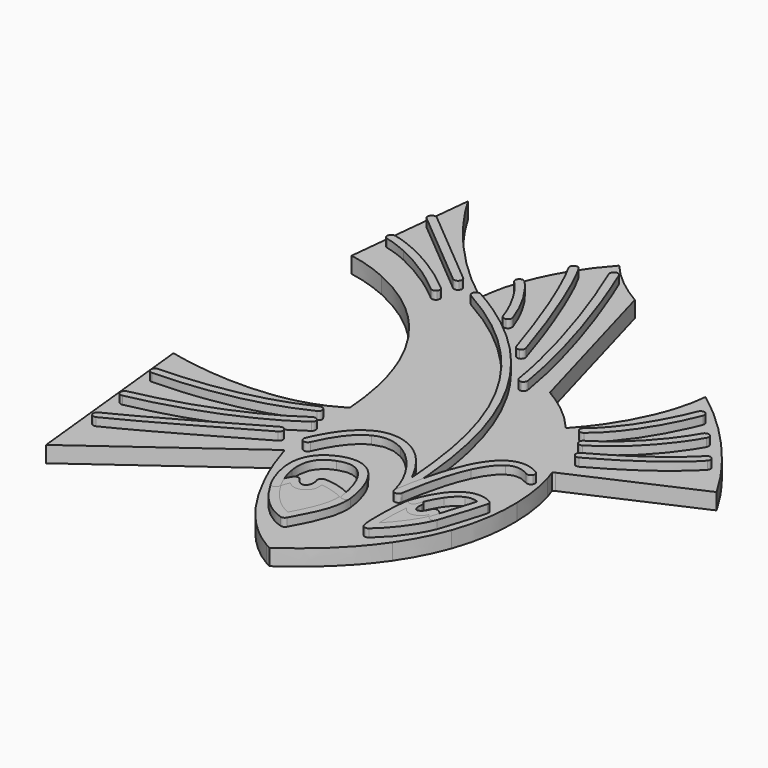
from build123d import *

# Parameters (mm, degrees)
EXTRUDE_DEPTH    = 2
EXTRUDE001_DEPTH = 3
EXTRUDE002_DEPTH = 3
EXTRUDE003_DEPTH = 3
EXTRUDE004_DEPTH = 3
EXTRUDE005_DEPTH = 3
EXTRUDE006_DEPTH = 3
EXTRUDE007_DEPTH = 3
EXTRUDE008_DEPTH = 3
EXTRUDE009_DEPTH = 3
EXTRUDE010_DEPTH = 3
EXTRUDE011_DEPTH = 3
EXTRUDE012_DEPTH = 3
EXTRUDE013_DEPTH = 3
EXTRUDE014_DEPTH = 3
EXTRUDE015_DEPTH = 3
EXTRUDE016_DEPTH = 3
EXTRUDE017_DEPTH = 3
EXTRUDE018_DEPTH = 3
EXTRUDE019_DEPTH = 3


with BuildPart() as extrude_body:
    # path1109_w → Extrude (new body)
    with BuildSketch(Plane(origin=(-0.892575, -4.604496, 0), x_dir=(0, 1, 0), z_dir=(0, 0, 1))):
        with BuildLine():
            add(Edge.make_bspline(
                [(18.381953, 28.835191), (18.09346, 27.137508), (17.538555, 25.493338), (16.849265, 23.918468)],
                knots=[0, 0, 0, 0, 1, 1, 1, 1], degree=3))
            add(Edge.make_bspline(
                [(16.849265, 23.918468), (15.387832, 20.619381), (13.174475, 17.650197), (10.393487, 15.34509)],
                knots=[0, 0, 0, 0, 1, 1, 1, 1], degree=3))
            add(Edge.make_bspline(
                [(10.393487, 15.34509), (7.608755, 13.020717), (4.288275, 11.386387), (0.80836, 10.394227)],
                knots=[0, 0, 0, 0, 1, 1, 1, 1], degree=3))
            add(Edge.make_bspline(
                [(0.80836, 10.394227), (-1.55961, 9.713605), (-4.003126, 9.315944), (-6.457933, 9.126728)],
                knots=[0, 0, 0, 0, 1, 1, 1, 1], degree=3))
            add(Edge.make_bspline(
                [(-6.457933, 9.126728), (-6.623024, 9.185088), (-6.664554, 9.382069), (-6.766391, 9.509392)],
                knots=[0, 0, 0, 0, 1, 1, 1, 1], degree=3))
            add(Edge.make_bspline(
                [(-6.766391, 9.509392), (-8.079113, 11.659896), (-8.76699, 14.135099), (-9.093978, 16.617297)],
                knots=[0, 0, 0, 0, 1, 1, 1, 1], degree=3))
            add(Edge.make_bspline(
                [(-9.093978, 16.617297), (-9.51597, 19.898777), (-9.349459, 23.232866), (-8.860775, 26.497299)],
                knots=[0, 0, 0, 0, 1, 1, 1, 1], degree=3))
            add(Edge.make_bspline(
                [(-8.860775, 26.497299), (-8.703361, 27.515904), (-8.516595, 28.530524), (-8.276006, 29.532973)],
                knots=[0, 0, 0, 0, 1, 1, 1, 1], degree=3))
            add(Edge.make_bspline(
                [(-8.276006, 29.532973), (-15.825913, 28.740132), (-23.37582, 27.947293), (-30.925726, 27.154453)],
                knots=[0, 0, 0, 0, 1, 1, 1, 1], degree=3))
            add(Edge.make_bspline(
                [(-30.925726, 27.154453), (-26.434715, 20.971801), (-21.943704, 14.789151), (-17.452693, 8.606499)],
                knots=[0, 0, 0, 0, 1, 1, 1, 1], degree=3))
            add(Edge.make_bspline(
                [(-17.452693, 8.606499), (-17.468243, 8.476083), (-17.541993, 8.407435), (-17.671592, 8.396756)],
                knots=[0, 0, 0, 0, 1, 1, 1, 1], degree=3))
            add(Edge.make_bspline(
                [(-17.671592, 8.396756), (-19.675744, 7.792168), (-21.61874, 7.017008), (-23.50533, 6.114496)],
                knots=[0, 0, 0, 0, 1, 1, 1, 1], degree=3))
            add(Edge.make_bspline(
                [(-23.50533, 6.114496), (-26.199065, 4.811834), (-28.783443, 3.221915), (-30.970769, 1.166448)],
                knots=[0, 0, 0, 0, 1, 1, 1, 1], degree=3))
            add(Edge.make_bspline(
                [(-30.970769, 1.166448), (-32.125231, 0.073067), (-33.146697, -1.137743), (-33.945302, -2.517715)],
                knots=[0, 0, 0, 0, 1, 1, 1, 1], degree=3))
            add(Edge.make_bspline(
                [(-33.945302, -2.517715), (-34.056995, -2.710815), (-34.163713, -2.906796), (-34.265213, -3.105441)],
                knots=[0, 0, 0, 0, 1, 1, 1, 1], degree=3))
            add(Edge.make_bspline(
                [(-34.265213, -3.105441), (-32.00193, -6.404285), (-29.249159, -9.411966), (-25.936131, -11.681635)],
                knots=[0, 0, 0, 0, 1, 1, 1, 1], degree=3))
            add(Edge.make_bspline(
                [(-25.936131, -11.681635), (-24.22088, -12.857357), (-22.344829, -13.835515), (-20.390677, -14.532582)],
                knots=[0, 0, 0, 0, 1, 1, 1, 1], degree=3))
            add(Edge.make_bspline(
                [(-20.390677, -14.532582), (-17.692562, -15.501847), (-14.832501, -15.952354), (-11.97039, -15.878552)],
                knots=[0, 0, 0, 0, 1, 1, 1, 1], degree=3))
            add(Edge.make_bspline(
                [(-11.97039, -15.878552), (-9.990465, -15.827512), (-8.015191, -15.541054), (-6.107226, -14.984446)],
                knots=[0, 0, 0, 0, 1, 1, 1, 1], degree=3))
            add(Edge.make_bspline(
                [(-6.107226, -14.984446), (-5.7239, -14.868346), (-5.341557, -14.7473), (-4.969569, -14.598257)],
                knots=[0, 0, 0, 0, 1, 1, 1, 1], degree=3))
            add(Edge.make_bspline(
                [(-4.969569, -14.598257), (-4.828071, -14.614667), (-4.79245, -14.739758), (-4.745974, -14.853712)],
                knots=[0, 0, 0, 0, 1, 1, 1, 1], degree=3))
            add(Edge.make_bspline(
                [(-4.745974, -14.853712), (-2.565798, -19.746798), (-0.385623, -24.639885), (1.794553, -29.532973)],
                knots=[0, 0, 0, 0, 1, 1, 1, 1], degree=3))
            add(Edge.make_bspline(
                [(1.794553, -29.532973), (3.749467, -28.425449), (5.588326, -27.130813), (7.357339, -25.745862)],
                knots=[0, 0, 0, 0, 1, 1, 1, 1], degree=3))
            add(Edge.make_bspline(
                [(7.357339, -25.745862), (10.837405, -23.003029), (13.996693, -19.834603), (16.659137, -16.287154)],
                knots=[0, 0, 0, 0, 1, 1, 1, 1], degree=3))
            add(Edge.make_bspline(
                [(16.659137, -16.287154), (14.570579, -16.11039), (12.537558, -15.503919), (10.615185, -14.6859)],
                knots=[0, 0, 0, 0, 1, 1, 1, 1], degree=3))
            add(Edge.make_bspline(
                [(10.615185, -14.6859), (7.903544, -13.5217), (5.397682, -11.885244), (3.228483, -9.886672)],
                knots=[0, 0, 0, 0, 1, 1, 1, 1], degree=3))
            add(Edge.make_bspline(
                [(3.228483, -9.886672), (3.194696, -9.7489), (3.280279, -9.670024), (3.387594, -9.60187)],
                knots=[0, 0, 0, 0, 1, 1, 1, 1], degree=3))
            add(Edge.make_bspline(
                [(3.387594, -9.60187), (4.922412, -8.339113), (6.182443, -6.775421), (7.277511, -5.1257)],
                knots=[0, 0, 0, 0, 1, 1, 1, 1], degree=3))
            add(Edge.make_bspline(
                [(7.277511, -5.1257), (7.523999, -4.760164), (7.746823, -4.375632), (7.977955, -4.003143)],
                knots=[0, 0, 0, 0, 1, 1, 1, 1], degree=3))
            add(Edge.make_bspline(
                [(7.977955, -4.003143), (8.133045, -3.905711), (8.331976, -3.895004), (8.504278, -3.83162)],
                knots=[0, 0, 0, 0, 1, 1, 1, 1], degree=3))
            add(Edge.make_bspline(
                [(8.504278, -3.83162), (15.078779, -1.981864), (21.65328, -0.132108), (28.22778, 1.717648)],
                knots=[0, 0, 0, 0, 1, 1, 1, 1], degree=3))
            add(Edge.make_bspline(
                [(28.22778, 1.717648), (29.152411, 3.296762), (30.243855, 4.783624), (31.511228, 6.105802)],
                knots=[0, 0, 0, 0, 1, 1, 1, 1], degree=3))
            add(Edge.make_bspline(
                [(31.511228, 6.105802), (31.945829, 6.554473), (32.403157, 6.981988), (32.890384, 7.373336)],
                knots=[0, 0, 0, 0, 1, 1, 1, 1], degree=3))
            add(Edge.make_bspline(
                [(32.890384, 7.373336), (30.818202, 9.267517), (28.431088, 10.831208), (25.854992, 11.965202)],
                knots=[0, 0, 0, 0, 1, 1, 1, 1], degree=3))
            add(Edge.make_bspline(
                [(25.854992, 11.965202), (24.174024, 12.701385), (22.383291, 13.271917), (20.558214, 13.538264)],
                knots=[0, 0, 0, 0, 1, 1, 1, 1], degree=3))
            add(Edge.make_bspline(
                [(20.558214, 13.538264), (20.200919, 13.588724), (19.848591, 13.627124), (19.484227, 13.6526)],
                knots=[0, 0, 0, 0, 1, 1, 1, 1], degree=3))
            add(Edge.make_bspline(
                [(19.484227, 13.6526), (19.400127, 13.767019), (19.405427, 13.871388), (19.516547, 13.963862)],
                knots=[0, 0, 0, 0, 1, 1, 1, 1], degree=3))
            add(Edge.make_bspline(
                [(19.516547, 13.963862), (22.527011, 17.973608), (26.1609, 21.503913), (30.191444, 24.482476)],
                knots=[0, 0, 0, 0, 1, 1, 1, 1], degree=3))
            add(Edge.make_bspline(
                [(30.191444, 24.482476), (31.50226, 25.44675), (32.853347, 26.359467), (34.265213, 27.169994)],
                knots=[0, 0, 0, 0, 1, 1, 1, 1], degree=3))
            add(Edge.make_bspline(
                [(34.265213, 27.169994), (28.970792, 27.725059), (23.676374, 28.280124), (18.381953, 28.835191)],
                knots=[0, 0, 0, 0, 1, 1, 1, 1], degree=3))
        make_face()
    extrude(amount=EXTRUDE_DEPTH)


with BuildPart() as extrude001:
    # path1209 → Extrude001 (new body)
    with BuildSketch(Plane(origin=(-1.098331, -7.404065, 0), x_dir=(0, 1, 0), z_dir=(0, 0, 1))):
        with BuildLine():
            add(Edge.make_bspline(
                [(21.216565, 12.714169), (21.459297, 13.15057), (21.023206, 13.393857)],
                knots=[1.063195, 1.063195, 1.063195, 2.632718, 2.632718, 2.632718], degree=2, weights=[1, 0.707557, 1]))
            add(Edge.make_bspline(
                [(21.023206, 13.393857), (20.587924, 13.637056), (20.343518, 13.20245)],
                knots=[2.632083, 2.632083, 2.632083, 4.200104, 4.200104, 4.200104], degree=2, weights=[1, 0.708087, 1]))
            add(Edge.make_bspline(
                [(20.343518, 13.20245), (10.75191, -3.945727), (-4.503114, -5.406375), (-12.875232, -6.07294)],
                knots=[0, 0, 0, 0, 1, 1, 1, 1], degree=3))
            add(Edge.make_bspline(
                [(-12.875232, -6.07294), (-10.789905, -5.036703), (-8.801636, -3.638222), (-7.773669, -1.717471)],
                knots=[0, 0, 0, 0, 1, 1, 1, 1], degree=3))
            add(Edge.make_bspline(
                [(-7.773669, -1.717471), (-7.013591, -0.297269), (-6.800692, 1.339455), (-7.562732, 2.897763)],
                knots=[0, 0, 0, 0, 1, 1, 1, 1], degree=3))
            add(Edge.make_bspline(
                [(-7.562732, 2.897763), (-8.324772, 4.456072), (-9.993898, 5.891592), (-12.836169, 7.126279)],
                knots=[0, 0, 0, 0, 1, 1, 1, 1], degree=3))
            add(Edge.make_bspline(
                [(-12.836169, 7.126279), (-13.294099, 7.326276), (-13.494372, 6.868466)],
                knots=[2.729819, 2.729819, 2.729819, 4.300013, 4.300013, 4.300013], degree=2, weights=[1, 0.70732, 1]))
            add(Edge.make_bspline(
                [(-13.494372, 6.868466), (-13.694058, 6.409298), (-13.234607, 6.210263)],
                knots=[4.302174, 4.302174, 4.302174, 5.874389, 5.874389, 5.874389], degree=2, weights=[1, 0.706605, 1]))
            add(Edge.make_bspline(
                [(-13.234607, 6.210263), (-10.522201, 5.03199), (-9.074548, 3.712618), (-8.461169, 2.45831)],
                knots=[0, 0, 0, 0, 1, 1, 1, 1], degree=3))
            add(Edge.make_bspline(
                [(-8.461169, 2.45831), (-7.847791, 1.204002), (-8.002834, -0.029081), (-8.654529, -1.246768)],
                knots=[0, 0, 0, 0, 1, 1, 1, 1], degree=3))
            add(Edge.make_bspline(
                [(-8.654529, -1.246768), (-9.957918, -3.682143), (-13.39183, -5.839564), (-16.037341, -6.371768)],
                knots=[0, 0, 0, 0, 1, 1, 1, 1], degree=3))
            add(Edge.make_bspline(
                [(-16.037341, -6.371768), (-16.492805, -6.473716), (-16.422453, -6.935117), (-16.352101, -7.396519), (-15.886951, -7.358096)],
                knots=[3.361795, 3.361795, 3.361795, 4.863698, 4.863698, 6.365601, 6.365601, 6.365601], degree=2, weights=[1, 0.73104, 1, 0.73104, 1]))
            add(Edge.make_bspline(
                [(-15.886951, -7.358096), (-8.925045, -6.62176), (10.2185, -6.948516), (21.216565, 12.714169)],
                knots=[0, 0, 0, 0, 1, 1, 1, 1], degree=3))
        make_face()
    extrude(amount=EXTRUDE001_DEPTH)


with BuildPart() as extrude002:
    # path1211 → Extrude002 (new body)
    with BuildSketch(Plane(origin=(8.357602, -16.402263, 0), x_dir=(0, 1, 0), z_dir=(0, 0, 1))):
        with BuildLine():
            add(Edge.make_bspline(
                [(5.068279, -3.271304), (5.072879, -2.64288), (4.895624, -2.056121), (4.566325, -1.540835)],
                knots=[0, 0, 0, 0, 1, 1, 1, 1], degree=3))
            add(Edge.make_bspline(
                [(4.566325, -1.540835), (3.907729, -0.510263), (2.74822, 0.255876), (1.402263, 0.879087)],
                knots=[0, 0, 0, 0, 1, 1, 1, 1], degree=3))
            add(Edge.make_bspline(
                [(1.402263, 0.879087), (-1.289652, 2.125509), (-4.793491, 2.784997), (-6.867268, 3.090024)],
                knots=[0, 0, 0, 0, 1, 1, 1, 1], degree=3))
            add(Edge.make_bspline(
                [(-6.867268, 3.090024), (-7.362812, 3.163842), (-7.435628, 2.668149)],
                knots=[2.993717, 2.993717, 2.993717, 4.566536, 4.566536, 4.566536], degree=2, weights=[1, 0.706391, 1]))
            add(Edge.make_bspline(
                [(-7.435628, 2.668149), (-7.509445, 2.172605), (-7.013753, 2.09979)],
                knots=[4.564514, 4.564514, 4.564514, 6.137332, 6.137332, 6.137332], degree=2, weights=[1, 0.706392, 1]))
            add(Edge.make_bspline(
                [(-7.013753, 2.09979), (-4.9878, 1.801797), (-1.529985, 1.133248), (0.980388, -0.029116)],
                knots=[0, 0, 0, 0, 1, 1, 1, 1], degree=3))
            add(Edge.make_bspline(
                [(0.980388, -0.029116), (2.235575, -0.610298), (3.237591, -1.319041), (3.722575, -2.077945)],
                knots=[0, 0, 0, 0, 1, 1, 1, 1], degree=3))
            add(Edge.make_bspline(
                [(3.722575, -2.077945), (4.20756, -2.836848), (4.279278, -3.618785), (3.615154, -4.732242)],
                knots=[0, 0, 0, 0, 1, 1, 1, 1], degree=3))
            add(Edge.make_bspline(
                [(3.615154, -4.732242), (3.359164, -5.161962), (3.788982, -5.417789)],
                knots=[4.175127, 4.175127, 4.175127, 5.746305, 5.746305, 5.746305], degree=2, weights=[1, 0.706972, 1]))
            add(Edge.make_bspline(
                [(3.788982, -5.417789), (4.218703, -5.673779), (4.474529, -5.243961)],
                knots=[5.745924, 5.745924, 5.745924, 7.317102, 7.317102, 7.317102], degree=2, weights=[1, 0.706972, 1]))
            add(Edge.make_bspline(
                [(4.474529, -5.243961), (4.877192, -4.568864), (5.063653, -3.899729), (5.068279, -3.271304)],
                knots=[0, 0, 0, 0, 1, 1, 1, 1], degree=3))
        make_face()
    extrude(amount=EXTRUDE002_DEPTH)


with BuildPart() as extrude003:
    # path4670 → Extrude003 (new body)
    with BuildSketch(Plane(origin=(-18.668193, -20.921825, 0), x_dir=(0, 1, 0), z_dir=(0, 0, 1))):
        with BuildLine():
            add(Edge.make_bspline(
                [(4.478466, -8.209209), (0.864577, -3.139223), (-1.494144, 4.090844), (-2.470753, 9.062276)],
                knots=[0, 0, 0, 0, 1, 1, 1, 1], degree=3))
            add(Edge.make_bspline(
                [(-2.470753, 9.062276), (-2.566931, 9.554235), (-3.058644, 9.456807)],
                knots=[1.763862, 1.763862, 1.763862, 3.337199, 3.337199, 3.337199], degree=2, weights=[1, 0.706208, 1]))
            add(Edge.make_bspline(
                [(-3.058644, 9.456807), (-3.548722, 9.359046), (-3.451222, 8.868916)],
                knots=[3.338489, 3.338489, 3.338489, 4.908752, 4.908752, 4.908752], degree=2, weights=[1, 0.707295, 1]))
            add(Edge.make_bspline(
                [(-3.451222, 8.868916), (-2.451675, 3.780722), (-0.089887, -3.52483), (3.664013, -8.791239)],
                knots=[0, 0, 0, 0, 1, 1, 1, 1], degree=3))
            add(Edge.make_bspline(
                [(3.664013, -8.791239), (3.955091, -9.197111), (4.361278, -8.906474)],
                knots=[5.334544, 5.334544, 5.334544, 6.904255, 6.904255, 6.904255], degree=2, weights=[1, 0.70749, 1]))
            add(Edge.make_bspline(
                [(4.361278, -8.906474), (4.768443, -8.616425), (4.478466, -8.209209)],
                knots=[0.618975, 0.618975, 0.618975, 2.189594, 2.189594, 2.189594], degree=2, weights=[1, 0.707169, 1]))
        make_face()
    extrude(amount=EXTRUDE003_DEPTH)


with BuildPart() as extrude004:
    # path5680 → Extrude004 (new body)
    with BuildSketch(Plane(origin=(-19.560402, -17.129801, 0), x_dir=(0, 1, 0), z_dir=(0, 0, 1))):
        with BuildLine():
            add(Edge.make_bspline(
                [(2.86027, -8.271339), (0.008059, -2.390973), (-0.650727, 4.316422), (-0.745199, 8.763817)],
                knots=[0, 0, 0, 0, 1, 1, 1, 1], degree=3))
            add(Edge.make_bspline(
                [(-0.745199, 8.763817), (-0.75678, 9.261965), (-1.254965, 9.252098)],
                knots=[1.59404, 1.59404, 1.59404, 3.161396, 3.161396, 3.161396], degree=2, weights=[1, 0.708322, 1]))
            add(Edge.make_bspline(
                [(-1.254965, 9.252098), (-1.755062, 9.242425), (-1.745199, 8.742332)],
                knots=[3.160931, 3.160931, 3.160931, 4.732109, 4.732109, 4.732109], degree=2, weights=[1, 0.706972, 1]))
            add(Edge.make_bspline(
                [(-1.745199, 8.742332), (-1.649109, 4.218905), (-0.99573, -2.615298), (1.959879, -8.708839)],
                knots=[0, 0, 0, 0, 1, 1, 1, 1], degree=3))
            add(Edge.make_bspline(
                [(1.959879, -8.708839), (2.17879, -9.15759), (2.627848, -8.939308)],
                knots=[5.166249, 5.166249, 5.166249, 6.735642, 6.735642, 6.735642], degree=2, weights=[1, 0.707603, 1]))
            add(Edge.make_bspline(
                [(2.627848, -8.939308), (3.078179, -8.721582), (2.86027, -8.271339)],
                knots=[0.450345, 0.450345, 0.450345, 2.021547, 2.021547, 2.021547], degree=2, weights=[1, 0.706964, 1]))
        make_face()
    extrude(amount=EXTRUDE004_DEPTH)


with BuildPart() as extrude005:
    # path5682 → Extrude005 (new body)
    with BuildSketch(Plane(origin=(-19.100492, -24.783244, 0), x_dir=(0, 1, 0), z_dir=(0, 0, 1))):
        with BuildLine():
            add(Edge.make_bspline(
                [(4.85551, -7.879789), (4.909415, -7.680243), (4.80668, -7.500883)],
                knots=[1.306959, 1.306959, 1.306959, 2.090963, 2.090963, 2.090963], degree=2, weights=[1, 0.924146, 1]))
            add(Edge.make_bspline(
                [(4.80668, -7.500883), (2.450153, -3.367482), (-1.697113, 3.770403), (-3.79293, 8.036227)],
                knots=[0, 0, 0, 0, 1, 1, 1, 1], degree=3))
            add(Edge.make_bspline(
                [(-3.79293, 8.036227), (-4.014581, 8.484553), (-4.462852, 8.262789)],
                knots=[2.029952, 2.029952, 2.029952, 3.601, 3.601, 3.601], degree=2, weights=[1, 0.707018, 1]))
            add(Edge.make_bspline(
                [(-4.462852, 8.262789), (-4.910028, 8.042697), (-4.691367, 7.59482)],
                knots=[3.598966, 3.598966, 3.598966, 5.166565, 5.166565, 5.166565], degree=2, weights=[1, 0.708236, 1]))
            add(Edge.make_bspline(
                [(-4.691367, 7.59482), (-2.560125, 3.256892), (1.585927, -3.870244), (3.937539, -7.995023)],
                knots=[0, 0, 0, 0, 1, 1, 1, 1], degree=3))
            add(Edge.make_bspline(
                [(3.937539, -7.995023), (4.185125, -8.432254), (4.621133, -8.182523)],
                knots=[5.227628, 5.227628, 5.227628, 6.803339, 6.803339, 6.803339], degree=2, weights=[1, 0.705367, 1]))
            add(Edge.make_bspline(
                [(4.621133, -8.182523), (4.801054, -8.079723), (4.85551, -7.879789)],
                knots=[0.519097, 0.519097, 0.519097, 1.304874, 1.304874, 1.304874], degree=2, weights=[1, 0.923807, 1]))
        make_face()
    extrude(amount=EXTRUDE005_DEPTH)


with BuildPart() as extrude006:
    # path5684 → Extrude006 (new body)
    with BuildSketch(Plane(origin=(15.470284, 2.403418, 0), x_dir=(0, 1, 0), z_dir=(0, 0, 1))):
        with BuildLine():
            add(Edge.make_bspline(
                [(5.608301, -3.080497), (5.784889, -2.61138), (5.315332, -2.435966)],
                knots=[1.210775, 1.210775, 1.210775, 2.784073, 2.784073, 2.784073], degree=2, weights=[1, 0.706222, 1]))
            add(Edge.make_bspline(
                [(5.315332, -2.435966), (4.909839, -2.281328), (4.125695, -1.936366), (2.95686, -1.382015), (1.813169, -0.7822), (0.692906, -0.138312), (-0.397696, 0.553847), (-1.45318, 1.30107), (-2.459262, 2.105711), (-3.416814, 2.996757), (-3.969468, 3.607631), (-4.25498, 3.964425)],
                knots=[0, 0, 0, 0, 1.291523, 2.583115, 3.874706, 5.166283, 6.457835, 7.749343, 9.040779, 10.332093, 11.623194, 11.623194, 11.623194, 11.623194], degree=3))
            add(Edge.make_bspline(
                [(-4.25498, 3.964425), (-4.56744, 4.355396), (-4.958105, 4.042555)],
                knots=[2.245041, 2.245041, 2.245041, 3.816816, 3.816816, 3.816816], degree=2, weights=[1, 0.706761, 1]))
            add(Edge.make_bspline(
                [(-4.958105, 4.042555), (-5.349074, 3.730093), (-5.03623, 3.33943)],
                knots=[3.815845, 3.815845, 3.815845, 5.387618, 5.387618, 5.387618], degree=2, weights=[1, 0.706761, 1]))
            add(Edge.make_bspline(
                [(-5.03623, 3.33943), (-4.753752, 2.986428), (-4.154429, 2.314456), (-3.168895, 1.386184), (-2.119922, 0.532427), (-1.020683, -0.256003), (0.117562, -0.985343), (1.291036, -1.661712), (2.482051, -2.285409), (3.734505, -2.869413), (4.492735, -3.200545), (4.96377, -3.373461)],
                knots=[0, 0, 0, 0, 1.351503, 2.703178, 4.05496, 5.406811, 6.758705, 8.110627, 9.462562, 10.814497, 12.166343, 12.166343, 12.166343, 12.166343], degree=3))
            add(Edge.make_bspline(
                [(4.96377, -3.373461), (5.432883, -3.55005), (5.608301, -3.080497)],
                knots=[5.92316, 5.92316, 5.92316, 7.496453, 7.496453, 7.496453], degree=2, weights=[1, 0.706223, 1]))
        make_face()
    extrude(amount=EXTRUDE006_DEPTH)


with BuildPart() as extrude007:
    # path5688 → Extrude007 (new body)
    with BuildSketch(Plane(origin=(17.816279, -0.392613, 0), x_dir=(0, 1, 0), z_dir=(0, 0, 1))):
        with BuildLine():
            add(Edge.make_bspline(
                [(5.019566, -3.992315), (5.256403, -3.549478), (4.812535, -3.31458)],
                knots=[1.079684, 1.079684, 1.079684, 2.654853, 2.654853, 2.654853], degree=2, weights=[1, 0.705559, 1]))
            add(Edge.make_bspline(
                [(4.812535, -3.31458), (4.427837, -3.109436), (3.702536, -2.647832), (2.635218, -1.908637), (1.611281, -1.113911), (0.626046, -0.270657), (-0.314913, 0.620673), (-1.209243, 1.562277), (-2.045159, 2.544003), (-2.839696, 3.603635), (-3.279253, 4.266821), (-3.529262, 4.675654)],
                knots=[0, 0, 0, 0, 1.295886, 2.591948, 3.888028, 5.184107, 6.480177, 7.776232, 9.072267, 10.368277, 11.664261, 11.664261, 11.664261, 11.664261], degree=3))
            add(Edge.make_bspline(
                [(-3.529262, 4.675654), (-3.791051, 5.101141), (-4.216762, 4.839716)],
                knots=[2.122367, 2.122367, 2.122367, 3.692309, 3.692309, 3.692309], degree=2, weights=[1, 0.707409, 1]))
            add(Edge.make_bspline(
                [(-4.216762, 4.839716), (-4.640857, 4.579543), (-4.382778, 4.15417)],
                knots=[3.691865, 3.691865, 3.691865, 5.25773, 5.25773, 5.25773], degree=2, weights=[1, 0.708848, 1]))
            add(Edge.make_bspline(
                [(-4.382778, 4.15417), (-4.146627, 3.767999), (-3.650019, 3.013505), (-2.834595, 1.929039), (-1.957054, 0.895056), (-1.023121, -0.088662), (-0.039363, -1.021393), (0.993148, -1.904026), (2.057818, -2.730762), (3.201535, -3.515953), (3.896205, -3.962752), (4.343785, -4.199346)],
                knots=[0, 0, 0, 0, 1.355533, 2.711093, 4.066676, 5.422279, 6.777897, 8.133523, 9.489151, 10.844758, 12.200173, 12.200173, 12.200173, 12.200173], degree=3))
            add(Edge.make_bspline(
                [(4.343785, -4.199346), (4.785096, -4.433412), (5.019566, -3.992315)],
                knots=[5.795525, 5.795525, 5.795525, 7.365405, 7.365405, 7.365405], degree=2, weights=[1, 0.707431, 1]))
        make_face()
    extrude(amount=EXTRUDE007_DEPTH)


with BuildPart() as extrude008:
    # path5690 → Extrude008 (new body)
    with BuildSketch(Plane(origin=(19.866281, -3.195938, 0), x_dir=(0, 1, 0), z_dir=(0, 0, 1))):
        with BuildLine():
            add(Edge.make_bspline(
                [(4.176407, -5.133719), (4.497961, -4.753973), (4.119766, -4.430594)],
                knots=[0.868187, 0.868187, 0.868187, 2.434169, 2.434169, 2.434169], degree=2, weights=[1, 0.708807, 1]))
            add(Edge.make_bspline(
                [(4.119766, -4.430594), (3.775488, -4.14074), (3.162592, -3.486835), (2.276003, -2.476304), (1.442068, -1.421538), (0.644278, -0.339462), (-0.11941, 0.766827), (-0.853271, 1.893668), (-1.558492, 3.036398), (-2.241497, 4.2008), (-2.672336, 4.970636), (-2.891952, 5.37214)],
                knots=[0, 0, 0, 0, 1.343637, 2.687721, 4.031867, 5.37604, 6.720229, 8.064426, 9.408631, 10.75284, 12.097053, 12.097053, 12.097053, 12.097053], degree=3))
            add(Edge.make_bspline(
                [(-2.891952, 5.37214), (-3.131855, 5.812725), (-3.57164, 5.571359)],
                knots=[2.069413, 2.069413, 2.069413, 3.643536, 3.643536, 3.643536], degree=2, weights=[1, 0.70593, 1]))
            add(Edge.make_bspline(
                [(-3.57164, 5.571359), (-4.01072, 5.330323), (-3.768905, 4.891672)],
                knots=[3.643633, 3.643633, 3.643633, 5.216206, 5.216206, 5.216206], degree=2, weights=[1, 0.706478, 1]))
            add(Edge.make_bspline(
                [(-3.768905, 4.891672), (-3.547406, 4.486726), (-3.09632, 3.681285), (-2.394001, 2.487835), (-1.66442, 1.310845), (-0.905594, 0.152462), (-0.115375, -0.98473), (0.710175, -2.096762), (1.572213, -3.180038), (2.489344, -4.220806), (3.117343, -4.889237), (3.473282, -5.192313)],
                knots=[0, 0, 0, 0, 1.384652, 2.769299, 4.153942, 5.538579, 6.923206, 8.307819, 9.692406, 11.076935, 12.461057, 12.461057, 12.461057, 12.461057], degree=3))
            add(Edge.make_bspline(
                [(3.473282, -5.192313), (3.854014, -5.513048), (4.176407, -5.133719)],
                knots=[5.583111, 5.583111, 5.583111, 7.149543, 7.149543, 7.149543], degree=2, weights=[1, 0.708648, 1]))
        make_face()
    extrude(amount=EXTRUDE008_DEPTH)


with BuildPart() as extrude009:
    # path5692 → Extrude009 (new body)
    with BuildSketch(Plane(origin=(-10.445948, 15.061833, 0), x_dir=(0, 1, 0), z_dir=(0, 0, 1))):
        with BuildLine():
            add(Edge.make_bspline(
                [(3.606136, 2.087255), (3.60288, 2.294634), (3.453792, 2.438818)],
                knots=[1.586498, 1.586498, 1.586498, 2.37291, 2.37291, 2.37291], degree=2, weights=[1, 0.923685, 1]))
            add(Edge.make_bspline(
                [(3.453792, 2.438818), (3.093441, 2.785555), (2.746761, 2.425148)],
                knots=[2.375447, 2.375447, 2.375447, 3.946402, 3.946402, 3.946402], degree=2, weights=[1, 0.70705, 1]))
            add(Edge.make_bspline(
                [(2.746761, 2.425148), (2.559946, 2.230158), (2.149268, 1.879629), (1.512473, 1.381092), (0.847409, 0.920129), (0.162156, 0.490088), (-0.541439, 0.091045), (-1.261845, -0.278255), (-1.994181, -0.617011), (-2.748789, -0.929682), (-3.236077, -1.110532), (-3.503239, -1.203758)],
                knots=[0, 0, 0, 0, 0.808508, 1.617216, 2.425954, 3.234706, 4.043465, 4.852228, 5.660996, 6.469766, 7.278538, 7.278538, 7.278538, 7.278538], degree=3))
            add(Edge.make_bspline(
                [(-3.503239, -1.203758), (-3.976303, -1.367622), (-3.811833, -1.840477)],
                knots=[3.475047, 3.475047, 3.475047, 5.047125, 5.047125, 5.047125], degree=2, weights=[1, 0.706653, 1]))
            add(Edge.make_bspline(
                [(-3.811833, -1.840477), (-3.646622, -2.3118), (-3.175114, -2.147117)],
                knots=[5.049532, 5.049532, 5.049532, 6.619208, 6.619208, 6.619208], degree=2, weights=[1, 0.707503, 1]))
            add(Edge.make_bspline(
                [(-3.175114, -2.147117), (-2.904128, -2.052557), (-2.36633, -1.85286), (-1.571945, -1.521068), (-0.791811, -1.157272), (-0.027373, -0.761398), (0.719508, -0.333614), (1.447085, 0.127351), (2.151635, 0.618945), (2.833274, 1.156008), (3.257254, 1.516269), (3.465511, 1.731788)],
                knots=[0, 0, 0, 0, 0.860579, 1.721157, 2.581733, 3.442306, 4.302875, 5.163438, 6.023988, 6.884511, 7.744843, 7.744843, 7.744843, 7.744843], degree=3))
            add(Edge.make_bspline(
                [(3.465511, 1.731788), (3.609351, 1.880434), (3.606136, 2.087255)],
                knots=[0.801829, 0.801829, 0.801829, 1.586338, 1.586338, 1.586338], degree=2, weights=[1, 0.92405, 1]))
        make_face()
    extrude(amount=EXTRUDE009_DEPTH)


with BuildPart() as extrude010:
    # path5694 → Extrude010 (new body)
    with BuildSketch(Plane(origin=(-6.762704, 15.665647, 0), x_dir=(0, 1, 0), z_dir=(0, 0, 1))):
        with BuildLine():
            add(Edge.make_bspline(
                [(8.377322, 3.668937), (8.118229, 4.094454), (7.691775, 3.836905)],
                knots=[2.117727, 2.117727, 2.117727, 3.684899, 3.684899, 3.684899], degree=2, weights=[1, 0.708387, 1]))
            add(Edge.make_bspline(
                [(7.691775, 3.836905), (7.153044, 3.509969), (5.997191, 2.947424), (4.269191, 2.144923), (2.509844, 1.397122), (0.738224, 0.684255), (-1.046773, 0.002299), (-2.838916, -0.652702), (-4.648616, -1.287463), (-6.431039, -1.890438), (-7.709079, -2.307373), (-8.269163, -2.487314)],
                knots=[0, 0, 0, 0, 1.909661, 3.81969, 5.729764, 7.639854, 9.549953, 11.460057, 13.370164, 15.280273, 17.190385, 17.190385, 17.190385, 17.190385], degree=3))
            add(Edge.make_bspline(
                [(-8.269163, -2.487314), (-8.744358, -2.640834), (-8.591428, -3.11622)],
                knots=[3.454076, 3.454076, 3.454076, 5.023629, 5.023629, 5.023629], degree=2, weights=[1, 0.707546, 1]))
            add(Edge.make_bspline(
                [(-8.591428, -3.11622), (-8.439293, -3.593186), (-7.962522, -3.440439)],
                knots=[5.021153, 5.021153, 5.021153, 6.593232, 6.593232, 6.593232], degree=2, weights=[1, 0.706653, 1]))
            add(Edge.make_bspline(
                [(-7.962522, -3.440439), (-7.348213, -3.243077), (-6.121254, -2.842283), (-4.287531, -2.221606), (-2.461126, -1.579428), (-0.64342, -0.91336), (1.164609, -0.220272), (2.958759, 0.504052), (4.743379, 1.265887), (6.484483, 2.075101), (7.678889, 2.661165), (8.209353, 2.981436)],
                knots=[0, 0, 0, 0, 1.935933, 3.871864, 5.807793, 7.743719, 9.67964, 11.615552, 13.551447, 15.4873, 17.422804, 17.422804, 17.422804, 17.422804], degree=3))
            add(Edge.make_bspline(
                [(8.209353, 2.981436), (8.637686, 3.241056), (8.377322, 3.668937)],
                knots=[0.544904, 0.544904, 0.544904, 2.117441, 2.117441, 2.117441], degree=2, weights=[1, 0.706491, 1]))
        make_face()
    extrude(amount=EXTRUDE010_DEPTH)


with BuildPart() as extrude011:
    # path5696 → Extrude011 (new body)
    with BuildSketch(Plane(origin=(-2.442973, 13.825816, 0), x_dir=(0, 1, 0), z_dir=(0, 0, 1))):
        with BuildLine():
            add(Edge.make_bspline(
                [(11.611684, 4.037495), (11.414199, 4.495929), (10.955434, 4.299214)],
                knots=[1.977554, 1.977554, 1.977554, 3.546672, 3.546672, 3.546672], degree=2, weights=[1, 0.7077, 1]))
            add(Edge.make_bspline(
                [(10.955434, 4.299214), (10.15841, 3.956787), (8.536546, 3.310275), (6.098336, 2.379473), (3.639608, 1.49696), (1.165182, 0.661107), (-1.325808, -0.122859), (-3.836432, -0.849022), (-6.357927, -1.506346), (-8.928308, -2.087462), (-10.583465, -2.396661), (-11.482066, -2.54063)],
                knots=[0, 0, 0, 0, 2.611609, 5.22326, 7.834912, 10.44656, 13.058198, 15.669821, 18.281419, 20.892973, 23.504449, 23.504449, 23.504449, 23.504449], degree=3))
            add(Edge.make_bspline(
                [(-11.482066, -2.54063), (-11.976882, -2.620221), (-11.896129, -3.114848)],
                knots=[3.301076, 3.301076, 3.301076, 4.874223, 4.874223, 4.874223], degree=2, weights=[1, 0.706275, 1]))
            add(Edge.make_bspline(
                [(-11.896129, -3.114848), (-11.816587, -3.607404), (-11.323863, -3.528911)],
                knots=[4.872495, 4.872495, 4.872495, 6.441162, 6.441162, 6.441162], degree=2, weights=[1, 0.707859, 1]))
            add(Edge.make_bspline(
                [(-11.323863, -3.528911), (-10.452805, -3.389355), (-8.72596, -3.068982), (-6.149875, -2.487136), (-3.595582, -1.823936), (-1.059438, -1.091902), (1.457701, -0.301035), (3.961162, 0.544493), (6.434483, 1.431816), (8.939536, 2.391664), (10.474195, 3.001543), (11.349965, 3.379292)],
                knots=[0, 0, 0, 0, 2.638943, 5.27796, 7.917019, 10.556103, 13.195202, 15.834311, 18.473425, 21.112536, 23.751604, 23.751604, 23.751604, 23.751604], degree=3))
            add(Edge.make_bspline(
                [(11.349965, 3.379292), (11.811065, 3.577081), (11.611684, 4.037495)],
                knots=[0.405211, 0.405211, 0.405211, 1.979464, 1.979464, 1.979464], degree=2, weights=[1, 0.705884, 1]))
        make_face()
    extrude(amount=EXTRUDE011_DEPTH)


with BuildPart() as extrude012:
    # path5698 → Extrude012 (new body)
    with BuildSketch(Plane(origin=(-22.742826, 15.200217, 0), x_dir=(0, 1, 0), z_dir=(0, 0, 1))):
        with BuildLine():
            add(Edge.make_bspline(
                [(2.965799, 5.116549), (3.056151, 5.605795), (2.567361, 5.69858)],
                knots=[1.388177, 1.388177, 1.388177, 2.953999, 2.953999, 2.953999], degree=2, weights=[1, 0.708863, 1]))
            add(Edge.make_bspline(
                [(2.567361, 5.69858), (2.076234, 5.79123), (1.983377, 5.300143)],
                knots=[2.955135, 2.955135, 2.955135, 4.52551, 4.52551, 4.52551], degree=2, weights=[1, 0.707256, 1]))
            add(Edge.make_bspline(
                [(1.983377, 5.300143), (1.963277, 5.191123), (1.909661, 4.983373), (1.821488, 4.668149), (1.723529, 4.357351), (1.618596, 4.048402), (1.507326, 3.741964), (1.39013, 3.437049), (1.268673, 3.136328), (1.138818, 2.82966), (1.058114, 2.64628), (1.008767, 2.536471)],
                knots=[0, 0, 0, 0, 0.326099, 0.652236, 0.978379, 1.304523, 1.630669, 1.956816, 2.282964, 2.609112, 2.93526, 2.93526, 2.93526, 2.93526], degree=3))
            add(Edge.make_bspline(
                [(1.008767, 2.536471), (0.220159, 0.781637), (-1.164755, -1.685549), (-3.549826, -4.502592)],
                knots=[0, 0, 0, 0, 1, 1, 1, 1], degree=3))
            add(Edge.make_bspline(
                [(-3.549826, -4.502592), (-3.873471, -4.884459), (-3.491236, -5.20767)],
                knots=[4.00933, 4.00933, 4.00933, 5.581262, 5.581262, 5.581262], degree=2, weights=[1, 0.706705, 1]))
            add(Edge.make_bspline(
                [(-3.491236, -5.20767), (-3.109368, -5.531316), (-2.786157, -5.14908)],
                knots=[5.580125, 5.580125, 5.580125, 7.152059, 7.152059, 7.152059], degree=2, weights=[1, 0.706704, 1]))
            add(Edge.make_bspline(
                [(-2.786157, -5.14908), (-0.338403, -2.258), (1.096358, 0.291576), (1.920874, 2.126311)],
                knots=[0, 0, 0, 0, 1, 1, 1, 1], degree=3))
            add(Edge.make_bspline(
                [(1.920874, 2.126311), (1.96905, 2.233513), (2.063677, 2.448618), (2.200324, 2.773615), (2.331379, 3.100884), (2.456517, 3.430497), (2.57532, 3.762338), (2.687205, 4.096985), (2.791432, 4.432581), (2.886399, 4.776596), (2.942369, 4.99372), (2.965799, 5.116549)],
                knots=[0, 0, 0, 0, 0.352526, 0.705053, 1.057578, 1.410104, 1.762628, 2.115151, 2.467672, 2.820189, 3.172674, 3.172674, 3.172674, 3.172674], degree=3))
        make_face()
    extrude(amount=EXTRUDE012_DEPTH)


with BuildPart() as extrude013:
    # path5700 → Extrude013 (new body)
    with BuildSketch(Plane(origin=(-22.481423, 19.123836, 0), x_dir=(0, 1, 0), z_dir=(0, 0, 1))):
        with BuildLine():
            add(Edge.make_bspline(
                [(4.641789, 4.98928), (4.624267, 5.1956), (4.466008, 5.329124)],
                knots=[1.655518, 1.655518, 1.655518, 2.440764, 2.440764, 2.440764], degree=2, weights=[1, 0.923909, 1]))
            add(Edge.make_bspline(
                [(4.466008, 5.329124), (4.082154, 5.651148), (3.76093, 5.266624)],
                knots=[2.443565, 2.443565, 2.443565, 4.016444, 4.016444, 4.016444], degree=2, weights=[1, 0.70637, 1]))
            Line((3.76093, 5.266624), (-4.528133, -4.625954))
            add(Edge.make_bspline(
                [(-4.528133, -4.625954), (-4.847246, -5.00866), (-4.465633, -5.329079)],
                knots=[4.017356, 4.017356, 4.017356, 5.584734, 5.584734, 5.584734], degree=2, weights=[1, 0.708314, 1]))
            add(Edge.make_bspline(
                [(-4.465633, -5.329079), (-4.083913, -5.648998), (-3.762508, -5.268529)],
                knots=[5.58564, 5.58564, 5.58564, 7.152538, 7.152538, 7.152538], degree=2, weights=[1, 0.708484, 1]))
            Line((-3.762508, -5.268529), (4.526555, 4.624049))
            add(Edge.make_bspline(
                [(4.526555, 4.624049), (4.659882, 4.782778), (4.641789, 4.98928)],
                knots=[0.872153, 0.872153, 0.872153, 1.65819, 1.65819, 1.65819], degree=2, weights=[1, 0.923757, 1]))
        make_face()
    extrude(amount=EXTRUDE013_DEPTH)


with BuildPart() as extrude014:
    # path1 → Extrude014 (new body)
    with BuildSketch(Plane(origin=(-0.572291, -29.974082, 0), x_dir=(0, 1, 0), z_dir=(0, 0, 1))):
        with BuildLine():
            add(Edge.make_bspline(
                [(3.411879, 0.717553), (3.516769, 0.743714), (3.619102, 0.779565)],
                knots=[1.452721, 1.452721, 1.452721, 1.575415, 1.575415, 1.575415], degree=2, weights=[1, 0.998119, 1]))
            add(Edge.make_bspline(
                [(1.467812, 1.605871), (1.704055, 0.290782), (3.411879, 0.717553)],
                knots=[6.165523, 6.165523, 6.165523, 7.736497, 7.736497, 7.736497], degree=2, weights=[1, 0.707044, 1]))
            add(Edge.make_bspline(
                [(2.357163, 3.114823), (1.304153, 2.518491), (1.467812, 1.605871)],
                knots=[4.951874, 4.951874, 4.951874, 6.165293, 6.165293, 6.165293], degree=2, weights=[1, 0.821529, 1]))
            add(Edge.make_bspline(
                [(2.357163, 3.114823), (1.868923, 3.433818), (1.214004, 3.676059), (0.351601, 3.809871)],
                knots=[0, 0, 0, 0, 1, 1, 1, 1], degree=3))
            add(Edge.make_bspline(
                [(0.351601, 3.809871), (-1.247762, 2.886478), (-3.448413, 1.382081), (-4.158718, -0.930925)],
                knots=[0, 0, 0, 0, 1, 1, 1, 1], degree=3))
            add(Edge.make_bspline(
                [(-4.158718, -0.930925), (-1.803997, -2.199322), (0.21875, -3.322962), (2.51736, -3.149911)],
                knots=[0, 0, 0, 0, 1, 1, 1, 1], degree=3))
            add(Edge.make_bspline(
                [(2.51736, -3.149911), (2.984213, -2.173784), (3.66644, -0.62222), (3.619102, 0.779565)],
                knots=[0, 0, 0, 0, 1, 1, 1, 1], degree=3))
        make_face()
    extrude(amount=EXTRUDE014_DEPTH)


with BuildPart() as extrude015:
    # path2 → Extrude015 (new body)
    with BuildSketch(Plane(origin=(-0.702783, -29.84489, 0), x_dir=(0, 1, 0), z_dir=(0, 0, 1))):
        with BuildLine():
            add(Edge.make_bspline(
                [(3.989421, 0.666358), (3.966078, 1.344342), (3.325359, 1.121436)],
                knots=[1.605213, 1.605213, 1.605213, 3.476396, 3.476396, 3.476396], degree=2, weights=[1, 0.593342, 1]))
            add(Edge.make_bspline(
                [(3.325359, 1.121436), (3.271739, 1.10265), (3.216126, 1.086283), (3.161296, 1.072608)],
                knots=[0, 0, 0, 0, 1, 1, 1, 1], degree=3))
            add(Edge.make_bspline(
                [(3.161296, 1.072608), (2.788998, 0.979574), (2.447028, 1.018877), (2.214031, 1.125342)],
                knots=[0, 0, 0, 0, 1, 1, 1, 1], degree=3))
            add(Edge.make_bspline(
                [(2.214031, 1.125342), (1.981033, 1.231807), (1.865046, 1.374535), (1.831218, 1.562842)],
                knots=[0, 0, 0, 0, 1, 1, 1, 1], degree=3))
            add(Edge.make_bspline(
                [(1.831218, 1.562842), (1.780838, 1.843802), (1.979567, 2.269282), (2.473796, 2.54917)],
                knots=[0, 0, 0, 0, 1, 1, 1, 1], degree=3))
            add(Edge.make_bspline(
                [(2.473796, 2.54917), (3.187566, 2.953502), (2.501136, 3.402685)],
                knots=[0.515403, 0.515403, 0.515403, 2.562147, 2.562147, 2.562147], degree=2, weights=[1, 0.52049, 1]))
            add(Edge.make_bspline(
                [(2.501136, 3.402685), (1.93853, 3.770268), (1.214815, 4.03222), (0.299964, 4.17417)],
                knots=[0, 0, 0, 0, 1, 1, 1, 1], degree=3))
            add(Edge.make_bspline(
                [(0.299964, 4.17417), (0.124828, 4.201053), (-0.028161, 4.11167)],
                knots=[2.98928, 2.98928, 2.98928, 3.670349, 3.670349, 3.670349], degree=2, weights=[1, 0.942576, 1]))
            add(Edge.make_bspline(
                [(-0.028161, 4.11167), (-1.65918, 3.17), (-3.98892, 1.618167), (-4.766442, -0.913721)],
                knots=[0, 0, 0, 0, 1, 1, 1, 1], degree=3))
            add(Edge.make_bspline(
                [(-4.766442, -0.913721), (-4.887453, -1.307406), (-4.524251, -1.501611)],
                knots=[4.414176, 4.414176, 4.414176, 5.792161, 5.792161, 5.792161], degree=2, weights=[1, 0.771887, 1]))
            add(Edge.make_bspline(
                [(-4.524251, -1.501611), (-2.17282, -2.768236), (-0.057108, -3.965818), (2.424968, -3.778955)],
                knots=[0, 0, 0, 0, 1, 1, 1, 1], degree=3))
            add(Edge.make_bspline(
                [(2.424968, -3.778955), (2.714102, -3.757394), (2.839031, -3.495752)],
                knots=[0.074434, 0.074434, 0.074434, 1.125327, 1.125327, 1.125327], degree=2, weights=[1, 0.8651, 1]))
            add(Edge.make_bspline(
                [(2.839031, -3.495752), (3.313059, -2.504622), (4.042648, -0.909817), (3.989421, 0.666358)],
                knots=[0, 0, 0, 0, 1, 1, 1, 1], degree=3))
        make_face()
        with BuildLine():
            add(Edge.make_bspline(
                [(1.798015, 0.215186), (2.122077, 0.067109), (2.519031, 0.117059), (2.903484, 0.137061)],
                knots=[0, 0, 0, 0, 1, 1, 1, 1], degree=3))
            add(Edge.make_bspline(
                [(2.903484, 0.137061), (2.812564, -0.862893), (2.44892, -1.909474), (2.071453, -2.73208)],
                knots=[0, 0, 0, 0, 1, 1, 1, 1], degree=3))
            add(Edge.make_bspline(
                [(2.071453, -2.73208), (0.218624, -2.778533), (-1.544422, -1.943148), (-3.573079, -0.855127)],
                knots=[0, 0, 0, 0, 1, 1, 1, 1], degree=3))
            add(Edge.make_bspline(
                [(-3.573079, -0.855127), (-2.831022, 0.956552), (-1.131021, 2.280992), (0.309734, 3.129248)],
                knots=[0, 0, 0, 0, 1, 1, 1, 1], degree=3))
            add(Edge.make_bspline(
                [(0.309734, 3.129248), (0.738503, 3.04957), (1.016116, 2.912277), (1.317546, 2.783545)],
                knots=[0, 0, 0, 0, 1, 1, 1, 1], degree=3))
            add(Edge.make_bspline(
                [(1.317546, 2.783545), (0.981173, 2.373006), (0.753694, 1.906497), (0.846843, 1.387061)],
                knots=[0, 0, 0, 0, 1, 1, 1, 1], degree=3))
            add(Edge.make_bspline(
                [(0.846843, 1.387061), (0.943483, 0.849102), (1.327385, 0.430235), (1.798015, 0.215186)],
                knots=[0, 0, 0, 0, 1, 1, 1, 1], degree=3))
        make_face(mode=Mode.SUBTRACT)
    extrude(amount=EXTRUDE015_DEPTH)


with BuildPart() as extrude016:
    # path7019 → Extrude016 (new body)
    with BuildSketch(Plane(origin=(-2.098086, -24.551351, 0), x_dir=(0, 1, 0), z_dir=(0, 0, 1))):
        with BuildLine():
            add(Edge.make_bspline(
                [(3.666585, -0.721133), (3.704615, -0.155527), (3.614095, 0.465807), (3.361898, 1.128476)],
                knots=[0, 0, 0, 0, 1, 1, 1, 1], degree=3))
            add(Edge.make_bspline(
                [(3.361898, 1.128476), (2.86007, 2.447047), (2.017715, 3.264402), (1.065023, 3.667539)],
                knots=[0, 0, 0, 0, 1, 1, 1, 1], degree=3))
            add(Edge.make_bspline(
                [(1.065023, 3.667539), (0.112331, 4.070675), (-0.91996, 4.079164), (-1.858805, 3.933164)],
                knots=[0, 0, 0, 0, 1, 1, 1, 1], degree=3))
            add(Edge.make_bspline(
                [(-1.858805, 3.933164), (-1.99393, 3.912151), (-2.262276, 3.863445), (-2.66167, 3.771893), (-3.056672, 3.663718), (-3.447252, 3.540287), (-3.83297, 3.402872), (-4.214126, 3.251891), (-4.588461, 3.089459), (-4.9627, 2.909518), (-5.193305, 2.792018), (-5.319743, 2.71832)],
                knots=[0, 0, 0, 0, 0.409471, 0.818948, 1.228431, 1.637917, 2.047406, 2.456897, 2.866387, 3.275875, 3.685335, 3.685335, 3.685335, 3.685335], degree=3))
            add(Edge.make_bspline(
                [(-5.319743, 2.71832), (-5.754025, 2.468505), (-5.503336, 2.034726)],
                knots=[3.663605, 3.663605, 3.663605, 5.236415, 5.236415, 5.236415], degree=2, weights=[1, 0.706395, 1]))
            add(Edge.make_bspline(
                [(-5.503336, 2.034726), (-5.254009, 1.603239), (-4.821696, 1.851133)],
                knots=[5.23635, 5.23635, 5.23635, 6.803826, 6.803826, 6.803826], degree=2, weights=[1, 0.70828, 1]))
            add(Edge.make_bspline(
                [(-4.821696, 1.851133), (-4.715324, 1.91161), (-4.495144, 2.02302), (-4.162317, 2.180911), (-3.823779, 2.327401), (-3.480955, 2.463244), (-3.133854, 2.587627), (-2.782262, 2.699765), (-2.427853, 2.798169), (-2.064967, 2.882183), (-1.832139, 2.925035), (-1.704508, 2.944883)],
                knots=[0, 0, 0, 0, 0.368685, 0.73739, 1.106096, 1.474803, 1.843507, 2.212209, 2.580906, 2.949597, 3.318281, 3.318281, 3.318281, 3.318281], degree=3))
            add(Edge.make_bspline(
                [(-1.704508, 2.944883), (-0.883138, 3.072614), (-0.039624, 3.049759), (0.674398, 2.747617)],
                knots=[0, 0, 0, 0, 1, 1, 1, 1], degree=3))
            add(Edge.make_bspline(
                [(0.674398, 2.747617), (1.38842, 2.445475), (2.004041, 1.882643), (2.426351, 0.773008)],
                knots=[0, 0, 0, 0, 1, 1, 1, 1], degree=3))
            add(Edge.make_bspline(
                [(2.426351, 0.773008), (2.846085, -0.32986), (2.722384, -1.086161), (2.340411, -1.717227)],
                knots=[0, 0, 0, 0, 1, 1, 1, 1], degree=3))
            add(Edge.make_bspline(
                [(2.340411, -1.717227), (1.95844, -2.348293), (1.261318, -2.857976), (0.473223, -3.232852)],
                knots=[0, 0, 0, 0, 1, 1, 1, 1], degree=3))
            add(Edge.make_bspline(
                [(0.473223, -3.232852), (0.353781, -3.289667), (0.111802, -3.39691), (-0.258141, -3.540768), (-0.633612, -3.669491), (-1.013482, -3.784535), (-1.396901, -3.887063), (-1.783308, -3.977821), (-2.171977, -4.057581), (-2.563544, -4.125203), (-2.824008, -4.164189), (-2.956464, -4.178164)],
                knots=[0, 0, 0, 0, 0.396808, 0.793627, 1.190452, 1.587282, 1.984115, 2.38095, 2.777785, 3.17462, 3.571437, 3.571437, 3.571437, 3.571437], degree=3))
            add(Edge.make_bspline(
                [(-2.956464, -4.178164), (-3.453053, -4.228362), (-3.40373, -4.725039)],
                knots=[3.242336, 3.242336, 3.242336, 4.811371, 4.811371, 4.811371], degree=2, weights=[1, 0.707729, 1]))
            add(Edge.make_bspline(
                [(-3.40373, -4.725039), (-3.353513, -5.223778), (-2.854902, -5.172305)],
                knots=[4.81274, 4.81274, 4.81274, 6.386054, 6.386054, 6.386054], degree=2, weights=[1, 0.706216, 1]))
            add(Edge.make_bspline(
                [(-2.854902, -5.172305), (-2.708487, -5.158366), (-2.424343, -5.117343), (-1.994271, -5.04471), (-1.568349, -4.95775), (-1.144838, -4.857943), (-0.724928, -4.744646), (-0.308737, -4.617051), (0.101315, -4.474862), (0.50977, -4.314147), (0.766016, -4.200313), (0.902911, -4.135195)],
                knots=[0, 0, 0, 0, 0.43492, 0.869863, 1.304808, 1.739753, 2.174696, 2.609637, 3.044573, 3.479503, 3.914425, 3.914425, 3.914425, 3.914425], degree=3))
            add(Edge.make_bspline(
                [(0.902911, -4.135195), (1.795709, -3.710517), (2.663736, -3.115935), (3.195882, -2.236758)],
                knots=[0, 0, 0, 0, 1, 1, 1, 1], degree=3))
            add(Edge.make_bspline(
                [(3.195882, -2.236758), (3.461955, -1.797169), (3.62856, -1.286739), (3.666585, -0.721133)],
                knots=[0, 0, 0, 0, 1, 1, 1, 1], degree=3))
        make_face()
    extrude(amount=EXTRUDE016_DEPTH)


with BuildPart() as extrude017:
    # path3 → Extrude017 (new body)
    with BuildSketch(Plane(origin=(9.423943, -27.178227, 0), x_dir=(0, 1, 0), z_dir=(0, 0, 1))):
        with BuildLine():
            add(Edge.make_bspline(
                [(3.068071, 0.607943), (3.057691, 0.794944), (3.046181, 0.97949), (3.040681, 1.159331)],
                knots=[0, 0, 0, 0, 1, 1, 1, 1], degree=3))
            add(Edge.make_bspline(
                [(3.040681, 1.159331), (2.225778, 1.517823), (-2.949378, 1.643326), (-3.632813, 1.359319)],
                knots=[0, 0, 0, 0, 1, 1, 1, 1], degree=3))
            add(Edge.make_bspline(
                [(-3.632813, 1.359319), (-2.264213, -0.245371), (0.102062, -1.938405), (1.631982, -2.527782)],
                knots=[0, 0, 0, 0, 1, 1, 1, 1], degree=3))
            add(Edge.make_bspline(
                [(1.631982, -2.527782), (2.113909, -2.249541), (2.4408, -1.940195), (2.660343, -1.613109)],
                knots=[0, 0, 0, 0, 1, 1, 1, 1], degree=3))
            add(Edge.make_bspline(
                [(1.358613, -0.181672), (1.277436, -1.161324), (2.660343, -1.613109)],
                knots=[3.301964, 3.301964, 3.301964, 4.720665, 4.720665, 4.720665], degree=2, weights=[1, 0.758785, 1]))
            add(Edge.make_bspline(
                [(3.068071, 0.607943), (1.451931, 0.938937), (1.358613, -0.181672)],
                knots=[1.749052, 1.749052, 1.749052, 3.301683, 3.301683, 3.301683], degree=2, weights=[1, 0.7135, 1]))
        make_face()
    extrude(amount=EXTRUDE017_DEPTH)


with BuildPart() as extrude018:
    # path4 → Extrude018 (new body)
    with BuildSketch(Plane(origin=(9.400027, -27.038529, 0), x_dir=(0, 1, 0), z_dir=(0, 0, 1))):
        with BuildLine():
            add(Edge.make_bspline(
                [(3.427201, 0.610965), (3.416699, 0.800216), (3.405028, 0.981037), (3.399857, 1.150027)],
                knots=[0, 0, 0, 0, 1, 1, 1, 1], degree=3))
            add(Edge.make_bspline(
                [(3.399857, 1.150027), (3.391255, 1.465341), (3.102982, 1.593387)],
                knots=[1.59807, 1.59807, 1.59807, 2.723588, 2.723588, 2.723588], degree=2, weights=[1, 0.845786, 1]))
            add(Edge.make_bspline(
                [(3.102982, 1.593387), (2.730549, 1.757228), (2.284287, 1.795835), (1.65767, 1.855106)],
                knots=[0, 0, 0, 0, 1, 1, 1, 1], degree=3))
            add(Edge.make_bspline(
                [(1.65767, 1.855106), (1.031053, 1.914377), (0.278281, 1.95561), (-0.471237, 1.976199)],
                knots=[0, 0, 0, 0, 1, 1, 1, 1], degree=3))
            add(Edge.make_bspline(
                [(-0.471237, 1.976199), (-1.220754, 1.996789), (-1.964923, 1.997418), (-2.574752, 1.974249)],
                knots=[0, 0, 0, 0, 1, 1, 1, 1], degree=3))
            add(Edge.make_bspline(
                [(-2.574752, 1.974249), (-2.879667, 1.962663), (-3.150298, 1.944675), (-3.377487, 1.919562)],
                knots=[0, 0, 0, 0, 1, 1, 1, 1], degree=3))
            add(Edge.make_bspline(
                [(-3.377487, 1.919562), (-3.604675, 1.894448), (-3.768724, 1.877424), (-3.963424, 1.796515)],
                knots=[0, 0, 0, 0, 1, 1, 1, 1], degree=3))
            add(Edge.make_bspline(
                [(-3.963424, 1.796515), (-4.59578, 1.533664), (-4.152877, 1.011359)],
                knots=[3.535535, 3.535535, 3.535535, 5.415708, 5.415708, 5.415708], degree=2, weights=[1, 0.589718, 1]))
            add(Edge.make_bspline(
                [(-4.152877, 1.011359), (-2.712304, -0.677723), (-0.356303, -2.375268), (1.311967, -3.017942)],
                knots=[0, 0, 0, 0, 1, 1, 1, 1], degree=3))
            add(Edge.make_bspline(
                [(1.311967, -3.017942), (1.534737, -3.103938), (1.741654, -2.984742)],
                knots=[5.91478, 5.91478, 5.91478, 6.805815, 6.805815, 6.805815], degree=2, weights=[1, 0.902388, 1]))
            add(Edge.make_bspline(
                [(1.741654, -2.984742), (2.277767, -2.675213), (2.668776, -2.313033), (2.935013, -1.916379)],
                knots=[0, 0, 0, 0, 1, 1, 1, 1], degree=3))
            add(Edge.make_bspline(
                [(2.935013, -1.916379), (3.303105, -1.367844), (2.675248, -1.162473)],
                knots=[0.979768, 0.979768, 0.979768, 2.825463, 2.825463, 2.825463], degree=2, weights=[1, 0.603552, 1]))
            add(Edge.make_bspline(
                [(2.675248, -1.162473), (2.354408, -1.057657), (2.087818, -0.880499), (1.923295, -0.699582)],
                knots=[0, 0, 0, 0, 1, 1, 1, 1], degree=3))
            add(Edge.make_bspline(
                [(1.923295, -0.699582), (1.758772, -0.518666), (1.70755, -0.35161), (1.716263, -0.246457)],
                knots=[0, 0, 0, 0, 1, 1, 1, 1], degree=3))
            add(Edge.make_bspline(
                [(1.716263, -0.246457), (1.726063, -0.129212), (1.778353, -0.050052), (1.966263, 0.036746)],
                knots=[0, 0, 0, 0, 1, 1, 1, 1], degree=3))
            add(Edge.make_bspline(
                [(1.966263, 0.036746), (2.154175, 0.123545), (2.467488, 0.167138), (2.827592, 0.093387)],
                knots=[0, 0, 0, 0, 1, 1, 1, 1], degree=3))
            add(Edge.make_bspline(
                [(2.827592, 0.093387), (3.463131, -0.03677), (3.427201, 0.610965)],
                knots=[6.081181, 6.081181, 6.081181, 7.909396, 7.909396, 7.909396], degree=2, weights=[1, 0.610498, 1]))
        make_face()
        with BuildLine():
            add(Edge.make_bspline(
                [(1.185009, -1.371459), (1.319216, -1.519039), (1.540196, -1.587642), (1.71431, -1.703489)],
                knots=[0, 0, 0, 0, 1, 1, 1, 1], degree=3))
            add(Edge.make_bspline(
                [(1.71431, -1.703489), (1.62776, -1.785169), (1.551528, -1.867201), (1.436967, -1.947629)],
                knots=[0, 0, 0, 0, 1, 1, 1, 1], degree=3))
            add(Edge.make_bspline(
                [(1.436967, -1.947629), (0.254976, -1.436696), (-1.357008, -0.264583), (-2.621627, 0.968387)],
                knots=[0, 0, 0, 0, 1, 1, 1, 1], degree=3))
            add(Edge.make_bspline(
                [(-2.621627, 0.968387), (-2.589397, 0.969797), (-2.570887, 0.972987), (-2.537647, 0.974247)],
                knots=[0, 0, 0, 0, 1, 1, 1, 1], degree=3))
            add(Edge.make_bspline(
                [(-2.537647, 0.974247), (-1.959452, 0.996217), (-1.230148, 0.996297), (-0.498584, 0.976197)],
                knots=[0, 0, 0, 0, 1, 1, 1, 1], degree=3))
            add(Edge.make_bspline(
                [(-0.498584, 0.976197), (0.205969, 0.956842), (0.905494, 0.917858), (1.487744, 0.864869)],
                knots=[0, 0, 0, 0, 1, 1, 1, 1], degree=3))
            add(Edge.make_bspline(
                [(1.487744, 0.864869), (1.100116, 0.653548), (0.759196, 0.304268), (0.720166, -0.164428)],
                knots=[0, 0, 0, 0, 1, 1, 1, 1], degree=3))
            add(Edge.make_bspline(
                [(0.720166, -0.164428), (0.682186, -0.622804), (0.885867, -1.04251), (1.185009, -1.371459)],
                knots=[0, 0, 0, 0, 1, 1, 1, 1], degree=3))
        make_face(mode=Mode.SUBTRACT)
    extrude(amount=EXTRUDE018_DEPTH)


with BuildPart() as extrude019:
    # path7091 → Extrude019 (new body)
    with BuildSketch(Plane(origin=(11.4012, -21.989593, 0), x_dir=(0, 1, 0), z_dir=(0, 0, 1))):
        with BuildLine():
            add(Edge.make_bspline(
                [(2.882171, -1.022628), (2.896191, -0.550396), (2.799011, -0.106315), (2.618499, 0.291825)],
                knots=[0, 0, 0, 0, 1, 1, 1, 1], degree=3))
            add(Edge.make_bspline(
                [(2.618499, 0.291825), (2.257467, 1.088105), (1.609264, 1.70176), (0.927093, 2.184403)],
                knots=[0, 0, 0, 0, 1, 1, 1, 1], degree=3))
            add(Edge.make_bspline(
                [(0.927093, 2.184403), (0.828115, 2.254432), (0.627087, 2.389928), (0.317458, 2.580775), (0.001029, 2.76004), (-0.321309, 2.928474), (-0.648738, 3.086647), (-0.980975, 3.234942), (-1.316553, 3.373518), (-1.659202, 3.502032), (-1.882597, 3.580294), (-2.002594, 3.616044)],
                knots=[0, 0, 0, 0, 0.363604, 0.727214, 1.090827, 1.454443, 1.818061, 2.18168, 2.545299, 2.908916, 3.272515, 3.272515, 3.272515, 3.272515], degree=3))
            add(Edge.make_bspline(
                [(-2.002594, 3.616044), (-2.482812, 3.762911), (-2.627594, 3.28206)],
                knots=[2.844792, 2.844792, 2.844792, 4.419929, 4.419929, 4.419929], degree=2, weights=[1, 0.70557, 1]))
            add(Edge.make_bspline(
                [(-2.627594, 3.28206), (-2.771959, 2.803633), (-2.29361, 2.659013)],
                knots=[4.419328, 4.419328, 4.419328, 5.98959, 5.98959, 5.98959], degree=2, weights=[1, 0.707296, 1]))
            add(Edge.make_bspline(
                [(-2.29361, 2.659013), (-2.188339, 2.626492), (-1.983475, 2.553674), (-1.676443, 2.437124), (-1.373579, 2.311684), (-1.074016, 2.178138), (-0.778486, 2.03609), (-0.487261, 1.884963), (-0.201842, 1.724584), (0.079601, 1.552097), (0.256788, 1.433216), (0.348968, 1.367997)],
                knots=[0, 0, 0, 0, 0.327884, 0.655782, 0.98368, 1.311578, 1.639475, 1.96737, 2.295262, 2.623149, 2.95103, 2.95103, 2.95103, 2.95103], degree=3))
            add(Edge.make_bspline(
                [(0.348968, 1.367997), (0.944391, 0.946728), (1.457419, 0.433143), (1.708343, -0.120284)],
                knots=[0, 0, 0, 0, 1, 1, 1, 1], degree=3))
            add(Edge.make_bspline(
                [(1.708343, -0.120284), (1.911987, -0.569433), (1.907035, -1.068431), (1.708343, -1.647628)],
                knots=[0, 0, 0, 0, 1, 1, 1, 1], degree=3))
            add(Edge.make_bspline(
                [(1.708343, -1.647628), (1.51678, -1.596184), (1.136277, -1.489053), (0.566312, -1.321565), (-0.002109, -1.149987), (-0.569749, -0.975474), (-1.13658, -0.798772), (-1.703216, -0.620137), (-2.267999, -0.44043), (-2.837411, -0.257549), (-3.204076, -0.139069), (-3.399079, -0.075363)],
                knots=[0, 0, 0, 0, 0.593812, 1.18763, 1.781449, 2.375269, 2.969089, 3.562908, 4.156728, 4.750548, 5.344368, 5.344368, 5.344368, 5.344368], degree=3))
            add(Edge.make_bspline(
                [(-3.399079, -0.075363), (-3.87211, 0.080665), (-4.029938, -0.391769)],
                knots=[2.822984, 2.822984, 2.822984, 4.389972, 4.389972, 4.389972], degree=2, weights=[1, 0.708452, 1]))
            add(Edge.make_bspline(
                [(-4.029938, -0.391769), (-4.188498, -0.866556), (-3.713532, -1.024581)],
                knots=[4.390075, 4.390075, 4.390075, 5.961999, 5.961999, 5.961999], degree=2, weights=[1, 0.706708, 1]))
            add(Edge.make_bspline(
                [(-3.713532, -1.024581), (-3.506452, -1.0939), (-3.091241, -1.230983), (-2.468289, -1.434888), (-1.844508, -1.636578), (-1.219983, -1.835949), (-0.594662, -2.032488), (0.032151, -2.225551), (0.658986, -2.413502), (1.293365, -2.595216), (1.705255, -2.705118), (1.92514, -2.757003)],
                knots=[0, 0, 0, 0, 0.655559, 1.311117, 1.966676, 2.622234, 3.277793, 3.933351, 4.588907, 5.244459, 5.899982, 5.899982, 5.899982, 5.899982], degree=3))
            add(Edge.make_bspline(
                [(1.92514, -2.757003), (2.305017, -2.84602), (2.483734, -2.499191)],
                knots=[6.053007, 6.053007, 6.053007, 7.378178, 7.378178, 7.378178], degree=2, weights=[1, 0.788404, 1]))
            add(Edge.make_bspline(
                [(2.483734, -2.499191), (2.743918, -1.994381), (2.868151, -1.49486), (2.882171, -1.022628)],
                knots=[0, 0, 0, 0, 1, 1, 1, 1], degree=3))
        make_face()
    extrude(amount=EXTRUDE019_DEPTH)


solid = Compound([extrude_body.part, extrude001.part, extrude002.part, extrude003.part, extrude004.part, extrude005.part, extrude006.part, extrude007.part, extrude008.part, extrude009.part, extrude010.part, extrude011.part, extrude012.part, extrude013.part, extrude014.part, extrude015.part, extrude016.part, extrude017.part, extrude018.part, extrude019.part])
